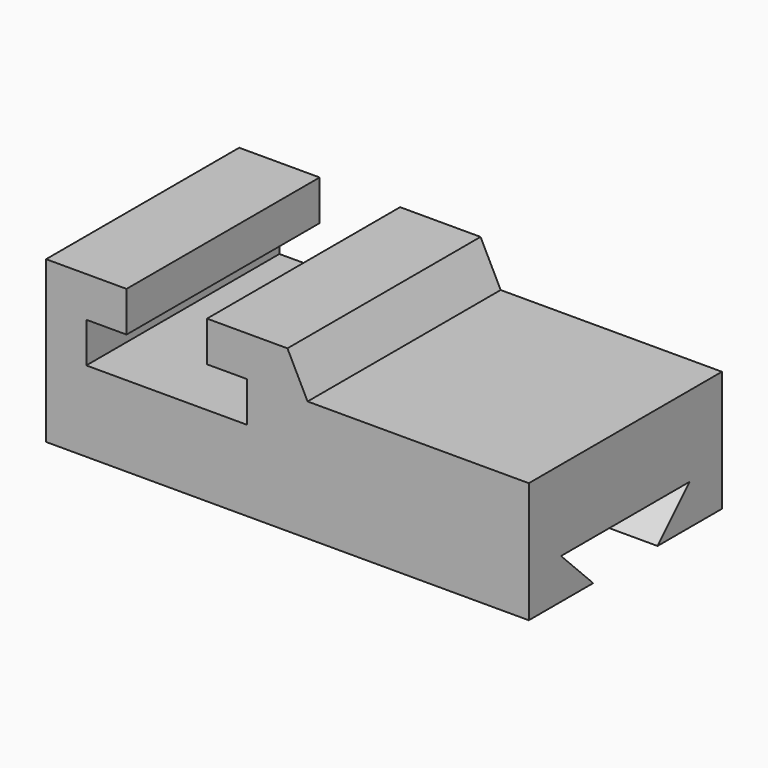
from build123d import *

# Parameters (mm, degrees)
F1_DEPTH = 76.2
F3_DEPTH = 152.4


with BuildPart() as f1:
    # F0 (on Front) → F1 (new body)
    with BuildSketch(Plane.XZ):
        Polygon((0, 50.8), (0, 0), (152.4, 0), (152.4, 38.1), (82.55, 38.1), (76.2, 50.8), (50.8, 50.8), (50.8, 38.1), (63.5, 38.1), (63.5, 25.4), (12.7, 25.4), (12.7, 38.1), (25.4, 38.1), (25.4, 50.8), align=None)
    extrude(amount=-F1_DEPTH)

    # F2 (on face) → F3 (cut)
    with BuildSketch(Plane.YZ.offset(152.4)):
        Polygon((12.7, 12.7), (25.4, 0), (50.8, 0), (63.5, 12.7), align=None)
    extrude(amount=-F3_DEPTH, mode=Mode.SUBTRACT)


solid = f1.part
